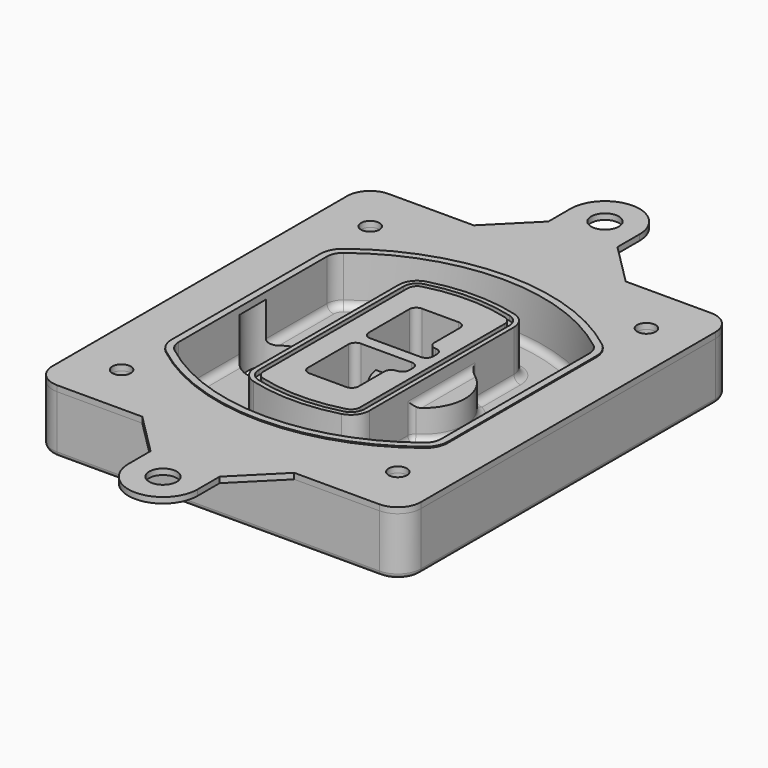
from build123d import *

# Parameters (mm, degrees)
F0_R      = 4
F1_DEPTH  = 25
F2_DEPTH  = 3
F3_DEPTH  = 18
F5_DEPTH  = 21
F6_DEPTH  = 2
F8_DEPTH  = 20
F9_DEPTH  = 16
F10_DEPTH = 25
F7_R      = 6
F7_R_2    = 4
F11_DEPTH = 6
F13_DEPTH = 9
F14_R     = 3
F15_R     = 2
F16_R     = 4
F16_R_2   = 6
F17_DEPTH = 2.5


with BuildPart() as f1:
    # F0 (on Top) → F1 (new body)
    with BuildSketch(Plane.XY):
        with BuildLine():
            ThreePointArc((-80, -80), (-77.0710678119, -87.0710678119), (-70, -90))
            Line((-70, -90), (70, -90))
            ThreePointArc((70, -90), (77.0710678119, -87.0710678119), (80, -80))
            Line((80, -80), (80, 80))
            ThreePointArc((80, 80), (77.0710678119, 87.0710678119), (70, 90))
            Line((70, 90), (-70, 90))
            ThreePointArc((-70, 90), (-77.0710678119, 87.0710678119), (-80, 80))
            Line((-80, 80), (-80, -80))
        make_face()
        with Locations((-60, -67.5)):
            Circle(F0_R, mode=Mode.SUBTRACT)
        with Locations((60, -67.5)):
            Circle(F0_R, mode=Mode.SUBTRACT)
        with Locations((-60, 67.5)):
            Circle(F0_R, mode=Mode.SUBTRACT)
        with BuildLine():
            ThreePointArc((-64, 40.2934422872), (-62.5820384798, 46.4328484224), (-58.6153846154, 51.3286200352))
            ThreePointArc((-58.6153846154, 51.3286200352), (0, 71.5), (58.6153846154, 51.3286200352))
            ThreePointArc((58.6153846154, 51.3286200352), (62.5820384798, 46.4328484224), (64, 40.2934422872))
            Line((64, 40.2934422872), (64, -40.2934422872))
            ThreePointArc((64, -40.2934422872), (62.5820384798, -46.4328484224), (58.6153846154, -51.3286200352))
            ThreePointArc((58.6153846154, -51.3286200352), (0, -71.5), (-58.6153846154, -51.3286200352))
            ThreePointArc((-58.6153846154, -51.3286200352), (-62.5820384798, -46.4328484224), (-64, -40.2934422872))
            Line((-64, -40.2934422872), (-64, 40.2934422872))
        make_face(mode=Mode.SUBTRACT)
        with Locations((60, 67.5)):
            Circle(F0_R, mode=Mode.SUBTRACT)
        with BuildLine():
            ThreePointArc((58.6153846154, 51.3286200352), (0, 71.5), (-58.6153846154, 51.3286200352))
            ThreePointArc((-58.6153846154, 51.3286200352), (-62.5820384798, 46.4328484224), (-64, 40.2934422872))
            Line((-64, 40.2934422872), (-64, -40.2934422872))
            ThreePointArc((-64, -40.2934422872), (-62.5820384798, -46.4328484224), (-58.6153846154, -51.3286200352))
            ThreePointArc((-58.6153846154, -51.3286200352), (0, -71.5), (58.6153846154, -51.3286200352))
            ThreePointArc((58.6153846154, -51.3286200352), (62.5820384798, -46.4328484224), (64, -40.2934422872))
            Line((64, -40.2934422872), (64, 40.2934422872))
            ThreePointArc((64, 40.2934422872), (62.5820384798, 46.4328484224), (58.6153846154, 51.3286200352))
        make_face()
        with BuildLine():
            Line((-60, -40.2934422872), (-60, 40.2934422872))
            ThreePointArc((-60, 40.2934422872), (-58.9871703427, 44.6787323838), (-56.1538461538, 48.1757121072))
            ThreePointArc((-56.1538461538, 48.1757121072), (0, 67.5), (56.1538461538, 48.1757121072))
            ThreePointArc((56.1538461538, 48.1757121072), (58.9871703427, 44.6787323838), (60, 40.2934422872))
            Line((60, 40.2934422872), (60, -40.2934422872))
            ThreePointArc((60, -40.2934422872), (58.9871703427, -44.6787323838), (56.1538461538, -48.1757121072))
            ThreePointArc((56.1538461538, -48.1757121072), (0, -67.5), (-56.1538461538, -48.1757121072))
            ThreePointArc((-56.1538461538, -48.1757121072), (-58.9871703427, -44.6787323838), (-60, -40.2934422872))
        make_face(mode=Mode.SUBTRACT)
        with BuildLine():
            ThreePointArc((-56.1538461538, 48.1757121072), (-58.9871703427, 44.6787323838), (-60, 40.2934422872))
            Line((-60, 40.2934422872), (-60, -40.2934422872))
            ThreePointArc((-60, -40.2934422872), (-58.9871703427, -44.6787323838), (-56.1538461538, -48.1757121072))
            ThreePointArc((-56.1538461538, -48.1757121072), (0, -67.5), (56.1538461538, -48.1757121072))
            ThreePointArc((56.1538461538, -48.1757121072), (58.9871703427, -44.6787323838), (60, -40.2934422872))
            Line((60, -40.2934422872), (60, 40.2934422872))
            ThreePointArc((60, 40.2934422872), (58.9871703427, 44.6787323838), (56.1538461538, 48.1757121072))
            ThreePointArc((56.1538461538, 48.1757121072), (0, 67.5), (-56.1538461538, 48.1757121072))
        make_face()
        with BuildLine():
            ThreePointArc((54.3076923077, 45.8110311612), (56.2910192399, 43.3631453548), (57, 40.2934422872))
            Line((57, 40.2934422872), (57, -40.2934422872))
            ThreePointArc((57, -40.2934422872), (56.2910192399, -43.3631453548), (54.3076923077, -45.8110311612))
            ThreePointArc((54.3076923077, -45.8110311612), (0, -64.5), (-54.3076923077, -45.8110311612))
            ThreePointArc((-54.3076923077, -45.8110311612), (-56.2910192399, -43.3631453548), (-57, -40.2934422872))
            Line((-57, -40.2934422872), (-57, 40.2934422872))
            ThreePointArc((-57, 40.2934422872), (-56.2910192399, 43.3631453548), (-54.3076923077, 45.8110311612))
            ThreePointArc((-54.3076923077, 45.8110311612), (0, 64.5), (54.3076923077, 45.8110311612))
        make_face(mode=Mode.SUBTRACT)
        with BuildLine():
            Line((57, -40.2934422872), (57, 40.2934422872))
            ThreePointArc((57, 40.2934422872), (56.2910192399, 43.3631453548), (54.3076923077, 45.8110311612))
            ThreePointArc((54.3076923077, 45.8110311612), (0, 64.5), (-54.3076923077, 45.8110311612))
            ThreePointArc((-54.3076923077, 45.8110311612), (-56.2910192399, 43.3631453548), (-57, 40.2934422872))
            Line((-57, 40.2934422872), (-57, -40.2934422872))
            ThreePointArc((-57, -40.2934422872), (-56.2910192399, -43.3631453548), (-54.3076923077, -45.8110311612))
            ThreePointArc((-54.3076923077, -45.8110311612), (0, -64.5), (54.3076923077, -45.8110311612))
            ThreePointArc((54.3076923077, -45.8110311612), (56.2910192399, -43.3631453548), (57, -40.2934422872))
        make_face()
    extrude(amount=-F1_DEPTH)

    # F0 (on Top) → F2 (join)
    with BuildSketch(Plane.XY):
        with BuildLine():
            ThreePointArc((-56.1538461538, 48.1757121072), (-58.9871703427, 44.6787323838), (-60, 40.2934422872))
            Line((-60, 40.2934422872), (-60, -40.2934422872))
            ThreePointArc((-60, -40.2934422872), (-58.9871703427, -44.6787323838), (-56.1538461538, -48.1757121072))
            ThreePointArc((-56.1538461538, -48.1757121072), (0, -67.5), (56.1538461538, -48.1757121072))
            ThreePointArc((56.1538461538, -48.1757121072), (58.9871703427, -44.6787323838), (60, -40.2934422872))
            Line((60, -40.2934422872), (60, 40.2934422872))
            ThreePointArc((60, 40.2934422872), (58.9871703427, 44.6787323838), (56.1538461538, 48.1757121072))
            ThreePointArc((56.1538461538, 48.1757121072), (0, 67.5), (-56.1538461538, 48.1757121072))
        make_face()
        with BuildLine():
            ThreePointArc((54.3076923077, 45.8110311612), (56.2910192399, 43.3631453548), (57, 40.2934422872))
            Line((57, 40.2934422872), (57, -40.2934422872))
            ThreePointArc((57, -40.2934422872), (56.2910192399, -43.3631453548), (54.3076923077, -45.8110311612))
            ThreePointArc((54.3076923077, -45.8110311612), (0, -64.5), (-54.3076923077, -45.8110311612))
            ThreePointArc((-54.3076923077, -45.8110311612), (-56.2910192399, -43.3631453548), (-57, -40.2934422872))
            Line((-57, -40.2934422872), (-57, 40.2934422872))
            ThreePointArc((-57, 40.2934422872), (-56.2910192399, 43.3631453548), (-54.3076923077, 45.8110311612))
            ThreePointArc((-54.3076923077, 45.8110311612), (0, 64.5), (54.3076923077, 45.8110311612))
        make_face(mode=Mode.SUBTRACT)
    extrude(amount=F2_DEPTH)

    # F0 (on Top) → F3 (cut)
    with BuildSketch(Plane.XY):
        with BuildLine():
            Line((57, -40.2934422872), (57, 40.2934422872))
            ThreePointArc((57, 40.2934422872), (56.2910192399, 43.3631453548), (54.3076923077, 45.8110311612))
            ThreePointArc((54.3076923077, 45.8110311612), (0, 64.5), (-54.3076923077, 45.8110311612))
            ThreePointArc((-54.3076923077, 45.8110311612), (-56.2910192399, 43.3631453548), (-57, 40.2934422872))
            Line((-57, 40.2934422872), (-57, -40.2934422872))
            ThreePointArc((-57, -40.2934422872), (-56.2910192399, -43.3631453548), (-54.3076923077, -45.8110311612))
            ThreePointArc((-54.3076923077, -45.8110311612), (0, -64.5), (54.3076923077, -45.8110311612))
            ThreePointArc((54.3076923077, -45.8110311612), (56.2910192399, -43.3631453548), (57, -40.2934422872))
        make_face()
    extrude(amount=-F3_DEPTH, mode=Mode.SUBTRACT)

    # F4 (on face) → F5 (join, through all)
    with BuildSketch(Plane.XY.offset(3)):
        with BuildLine():
            ThreePointArc((-25, -39.2465276821), (-23.3511545998, -44.1109737193), (-19.0842911877, -46.9702398883))
            ThreePointArc((-19.0842911877, -46.9702398883), (0, -49.5), (19.0842911877, -46.9702398883))
            ThreePointArc((19.0842911877, -46.9702398883), (23.3511545998, -44.1109737193), (25, -39.2465276821))
            Line((25, -39.2465276821), (25, 39.2465276821))
            ThreePointArc((25, 39.2465276821), (23.3511545998, 44.1109737193), (19.0842911877, 46.9702398883))
            ThreePointArc((19.0842911877, 46.9702398883), (0, 49.5), (-19.0842911877, 46.9702398883))
            ThreePointArc((-19.0842911877, 46.9702398883), (-23.3511545998, 44.1109737193), (-25, 39.2465276821))
            Line((-25, 39.2465276821), (-25, -39.2465276821))
        make_face()
        with BuildLine():
            ThreePointArc((18.5632183908, 45.0393118368), (21.7633659499, 42.89486221), (23, 39.2465276821))
            Line((23, 39.2465276821), (23, -39.2465276821))
            ThreePointArc((23, -39.2465276821), (21.7633659499, -42.89486221), (18.5632183908, -45.0393118368))
            ThreePointArc((18.5632183908, -45.0393118368), (0, -47.5), (-18.5632183908, -45.0393118368))
            ThreePointArc((-18.5632183908, -45.0393118368), (-21.7633659499, -42.89486221), (-23, -39.2465276821))
            Line((-23, -39.2465276821), (-23, 39.2465276821))
            ThreePointArc((-23, 39.2465276821), (-21.7633659499, 42.89486221), (-18.5632183908, 45.0393118368))
            ThreePointArc((-18.5632183908, 45.0393118368), (0, 47.5), (18.5632183908, 45.0393118368))
        make_face(mode=Mode.SUBTRACT)
        with BuildLine():
            Line((23, -39.2465276821), (23, 39.2465276821))
            ThreePointArc((23, 39.2465276821), (21.7633659499, 42.89486221), (18.5632183908, 45.0393118368))
            ThreePointArc((18.5632183908, 45.0393118368), (0, 47.5), (-18.5632183908, 45.0393118368))
            ThreePointArc((-18.5632183908, 45.0393118368), (-21.7633659499, 42.89486221), (-23, 39.2465276821))
            Line((-23, 39.2465276821), (-23, -39.2465276821))
            ThreePointArc((-23, -39.2465276821), (-21.7633659499, -42.89486221), (-18.5632183908, -45.0393118368))
            ThreePointArc((-18.5632183908, -45.0393118368), (0, -47.5), (18.5632183908, -45.0393118368))
            ThreePointArc((18.5632183908, -45.0393118368), (21.7633659499, -42.89486221), (23, -39.2465276821))
        make_face()
        with BuildLine():
            ThreePointArc((18.0421455939, 43.1083837852), (20.1755772999, 41.6787507007), (21, 39.2465276821))
            Line((21, 39.2465276821), (21, -39.2465276821))
            ThreePointArc((21, -39.2465276821), (20.1755772999, -41.6787507007), (18.0421455939, -43.1083837852))
            ThreePointArc((18.0421455939, -43.1083837852), (0, -45.5), (-18.0421455939, -43.1083837852))
            ThreePointArc((-18.0421455939, -43.1083837852), (-20.1755772999, -41.6787507007), (-21, -39.2465276821))
            Line((-21, -39.2465276821), (-21, 39.2465276821))
            ThreePointArc((-21, 39.2465276821), (-20.1755772999, 41.6787507007), (-18.0421455939, 43.1083837852))
            ThreePointArc((-18.0421455939, 43.1083837852), (0, 45.5), (18.0421455939, 43.1083837852))
        make_face(mode=Mode.SUBTRACT)
        with BuildLine():
            Line((21, -39.2465276821), (21, 39.2465276821))
            ThreePointArc((21, 39.2465276821), (20.1755772999, 41.6787507007), (18.0421455939, 43.1083837852))
            ThreePointArc((18.0421455939, 43.1083837852), (0, 45.5), (-18.0421455939, 43.1083837852))
            ThreePointArc((-18.0421455939, 43.1083837852), (-20.1755772999, 41.6787507007), (-21, 39.2465276821))
            Line((-21, 39.2465276821), (-21, -39.2465276821))
            ThreePointArc((-21, -39.2465276821), (-20.1755772999, -41.6787507007), (-18.0421455939, -43.1083837852))
            ThreePointArc((-18.0421455939, -43.1083837852), (0, -45.5), (18.0421455939, -43.1083837852))
            ThreePointArc((18.0421455939, -43.1083837852), (20.1755772999, -41.6787507007), (21, -39.2465276821))
        make_face()
        with BuildLine():
            Line((-8, -2.5), (14, -2.5))
            ThreePointArc((14, -2.5), (16.1213203436, -3.3786796564), (17, -5.5))
            Line((17, -5.5), (17, -7.5))
            ThreePointArc((17, -7.5), (16.1213203436, -9.6213203436), (14, -10.5))
            ThreePointArc((14, -10.5), (11.8786796564, -11.3786796564), (11, -13.5))
            Line((11, -13.5), (11, -27.5))
            ThreePointArc((11, -27.5), (10.1213203436, -29.6213203436), (8, -30.5))
            Line((8, -30.5), (-8, -30.5))
            ThreePointArc((-8, -30.5), (-10.1213203436, -29.6213203436), (-11, -27.5))
            Line((-11, -27.5), (-11, -5.5))
            ThreePointArc((-11, -5.5), (-10.1213203436, -3.3786796564), (-8, -2.5))
        make_face(mode=Mode.SUBTRACT)
        with BuildLine():
            ThreePointArc((-8, 2.5), (-10.1213203436, 3.3786796564), (-11, 5.5))
            Line((-11, 5.5), (-11, 27.5))
            ThreePointArc((-11, 27.5), (-10.1213203436, 29.6213203436), (-8, 30.5))
            Line((-8, 30.5), (8, 30.5))
            ThreePointArc((8, 30.5), (10.1213203436, 29.6213203436), (11, 27.5))
            Line((11, 27.5), (11, 13.5))
            ThreePointArc((11, 13.5), (11.8786796564, 11.3786796564), (14, 10.5))
            ThreePointArc((14, 10.5), (16.1213203436, 9.6213203436), (17, 7.5))
            Line((17, 7.5), (17, 5.5))
            ThreePointArc((17, 5.5), (16.1213203436, 3.3786796564), (14, 2.5))
            Line((14, 2.5), (-8, 2.5))
        make_face(mode=Mode.SUBTRACT)
    extrude(amount=-F5_DEPTH)

    # F4 (on face) → F6 (cut)
    with BuildSketch(Plane.XY.offset(3)):
        with BuildLine():
            Line((23, -39.2465276821), (23, 39.2465276821))
            ThreePointArc((23, 39.2465276821), (21.7633659499, 42.89486221), (18.5632183908, 45.0393118368))
            ThreePointArc((18.5632183908, 45.0393118368), (0, 47.5), (-18.5632183908, 45.0393118368))
            ThreePointArc((-18.5632183908, 45.0393118368), (-21.7633659499, 42.89486221), (-23, 39.2465276821))
            Line((-23, 39.2465276821), (-23, -39.2465276821))
            ThreePointArc((-23, -39.2465276821), (-21.7633659499, -42.89486221), (-18.5632183908, -45.0393118368))
            ThreePointArc((-18.5632183908, -45.0393118368), (0, -47.5), (18.5632183908, -45.0393118368))
            ThreePointArc((18.5632183908, -45.0393118368), (21.7633659499, -42.89486221), (23, -39.2465276821))
        make_face()
        with BuildLine():
            ThreePointArc((18.0421455939, 43.1083837852), (20.1755772999, 41.6787507007), (21, 39.2465276821))
            Line((21, 39.2465276821), (21, -39.2465276821))
            ThreePointArc((21, -39.2465276821), (20.1755772999, -41.6787507007), (18.0421455939, -43.1083837852))
            ThreePointArc((18.0421455939, -43.1083837852), (0, -45.5), (-18.0421455939, -43.1083837852))
            ThreePointArc((-18.0421455939, -43.1083837852), (-20.1755772999, -41.6787507007), (-21, -39.2465276821))
            Line((-21, -39.2465276821), (-21, 39.2465276821))
            ThreePointArc((-21, 39.2465276821), (-20.1755772999, 41.6787507007), (-18.0421455939, 43.1083837852))
            ThreePointArc((-18.0421455939, 43.1083837852), (0, 45.5), (18.0421455939, 43.1083837852))
        make_face(mode=Mode.SUBTRACT)
    extrude(amount=-F6_DEPTH, mode=Mode.SUBTRACT)

    # F7 (on face) → F8 (join)
    with BuildSketch(Plane(origin=(0, 0, -25), x_dir=(1, 0, 0), z_dir=(0, 0, -1))):
        with BuildLine():
            ThreePointArc((3.28842436, 0), (16.7567035675, 13.4682792075), (30.224982775, 0))
            Line((30.224982775, 0), (35.224982775, 0))
            ThreePointArc((35.224982775, 0), (16.7567035675, 18.4682792075), (-1.71157564, 0))
            Line((-1.71157564, 0), (3.28842436, 0))
        make_face()
        with BuildLine():
            Line((3.28842436, 0), (30.224982775, 0))
            ThreePointArc((30.224982775, 0), (16.7567035675, 13.4682792075), (3.28842436, 0))
        make_face()
        with BuildLine():
            ThreePointArc((3.28842436, 0), (16.7567035675, -13.4682792075), (30.224982775, 0))
            Line((30.224982775, 0), (3.28842436, 0))
        make_face()
        with BuildLine():
            Line((35.224982775, 0), (30.224982775, 0))
            ThreePointArc((30.224982775, 0), (16.7567035675, -13.4682792075), (3.28842436, 0))
            Line((3.28842436, 0), (-1.71157564, 0))
            ThreePointArc((-1.71157564, 0), (16.7567035675, -18.4682792075), (35.224982775, 0))
        make_face()
    extrude(amount=-F8_DEPTH)

    # F7 (on face) → F9 (cut)
    with BuildSketch(Plane(origin=(0, 0, -25), x_dir=(1, 0, 0), z_dir=(0, 0, -1))):
        with BuildLine():
            Line((3.28842436, 0), (30.224982775, 0))
            ThreePointArc((30.224982775, 0), (16.7567035675, 13.4682792075), (3.28842436, 0))
        make_face()
        with BuildLine():
            ThreePointArc((3.28842436, 0), (16.7567035675, -13.4682792075), (30.224982775, 0))
            Line((30.224982775, 0), (3.28842436, 0))
        make_face()
    extrude(amount=-F9_DEPTH, mode=Mode.SUBTRACT)

    # F7 (on face) → F10 (cut)
    with BuildSketch(Plane(origin=(0, 0, -25), x_dir=(1, 0, 0), z_dir=(0, 0, -1))):
        with BuildLine():
            Line((-59.0318229325, 0), (-32.0952645175, 0))
            ThreePointArc((-32.0952645175, 0), (-45.563543725, 13.4682792075), (-59.0318229325, 0))
        make_face()
        with BuildLine():
            ThreePointArc((-59.0318229325, 0), (-45.563543725, -13.4682792075), (-32.0952645175, 0))
            Line((-32.0952645175, 0), (-59.0318229325, 0))
        make_face()
    extrude(amount=-F10_DEPTH, mode=Mode.SUBTRACT)

    # F7 (on face) → F11 (cut)
    with BuildSketch(Plane(origin=(0, 0, -25), x_dir=(1, 0, 0), z_dir=(0, 0, -1))):
        with Locations((60, -67.5)):
            Circle(F7_R)
        with Locations((60, -67.5)):
            Circle(F7_R_2, mode=Mode.SUBTRACT)
        with Locations((60, -67.5)):
            Circle(F7_R)
        with Locations((60, -67.5)):
            Circle(F7_R_2, mode=Mode.SUBTRACT)
        with Locations((-60, -67.5)):
            Circle(F7_R)
        with Locations((-60, -67.5)):
            Circle(F7_R_2, mode=Mode.SUBTRACT)
        with Locations((-60, -67.5)):
            Circle(F7_R)
        with Locations((-60, -67.5)):
            Circle(F7_R_2, mode=Mode.SUBTRACT)
        with Locations((-60, 67.5)):
            Circle(F7_R)
        with Locations((-60, 67.5)):
            Circle(F7_R_2, mode=Mode.SUBTRACT)
        with Locations((-60, 67.5)):
            Circle(F7_R)
        with Locations((-60, 67.5)):
            Circle(F7_R_2, mode=Mode.SUBTRACT)
        with Locations((60, 67.5)):
            Circle(F7_R)
        with Locations((60, 67.5)):
            Circle(F7_R_2, mode=Mode.SUBTRACT)
        with Locations((60, 67.5)):
            Circle(F7_R)
        with Locations((60, 67.5)):
            Circle(F7_R_2, mode=Mode.SUBTRACT)
    extrude(amount=-F11_DEPTH, mode=Mode.SUBTRACT)

    # F12 (on face) → F13 (cut, through all)
    with BuildSketch(Plane(origin=(0, 0, -9), x_dir=(1, 0, 0), z_dir=(0, 0, -1))):
        with BuildLine():
            Line((11, 13.5), (11, 17.5481537753))
            ThreePointArc((11, 17.5481537753), (2.5696536419, 11.8239143813), (-1.5415842455, 2.5))
            Line((-1.5415842455, 2.5), (3.5224848595, 2.5))
            ThreePointArc((3.5224848595, 2.5), (6.1857188154, 8.3455872281), (11.2536447004, 12.2927168648))
            ThreePointArc((11.2536447004, 12.2927168648), (11.0640958889, 12.8831798879), (11, 13.5))
        make_face()
        with BuildLine():
            ThreePointArc((11.2536447004, -12.2927168648), (6.1857188154, -8.3455872281), (3.5224848595, -2.5))
            Line((3.5224848595, -2.5), (-1.5415842455, -2.5))
            ThreePointArc((-1.5415842455, -2.5), (2.5696536419, -11.8239143813), (11, -17.5481537753))
            Line((11, -17.5481537753), (11, -13.5))
            ThreePointArc((11, -13.5), (11.0640958889, -12.8831798879), (11.2536447004, -12.2927168648))
        make_face()
        with BuildLine():
            ThreePointArc((11.2536447004, 12.2927168648), (6.1857188154, 8.3455872281), (3.5224848595, 2.5))
            Line((3.5224848595, 2.5), (14, 2.5))
            ThreePointArc((14, 2.5), (16.1213203436, 3.3786796564), (17, 5.5))
            Line((17, 5.5), (17, 7.5))
            ThreePointArc((17, 7.5), (16.1213203436, 9.6213203436), (14, 10.5))
            ThreePointArc((14, 10.5), (12.3601599782, 10.9878446101), (11.2536447004, 12.2927168648))
        make_face()
        with BuildLine():
            Line((14, -2.5), (3.5224848595, -2.5))
            ThreePointArc((3.5224848595, -2.5), (6.1857188154, -8.3455872281), (11.2536447004, -12.2927168648))
            ThreePointArc((11.2536447004, -12.2927168648), (12.3601599782, -10.9878446101), (14, -10.5))
            ThreePointArc((14, -10.5), (16.1213203436, -9.6213203436), (17, -7.5))
            Line((17, -7.5), (17, -5.5))
            ThreePointArc((17, -5.5), (16.1213203436, -3.3786796564), (14, -2.5))
        make_face()
    extrude(amount=F13_DEPTH, mode=Mode.SUBTRACT)

    # F14
    f14_edges = [f1.edges().sort_by_distance(p)[0] for p in [
        (-57, -23.703476, -18),
        (-57, 23.703476, -18),
        (25, 0, -5),
        (25, 16.526506, -11.5),
        (25, -16.526506, -11.5),
        (25, -27.886517, -18),
        (35.224983, 0, -18),
    ]]
    fillet(f14_edges, radius=F14_R)

    # F15
    f15_edges = [f1.edges().sort_by_distance(p)[0] for p in [
        (0, -90, -25),
    ]]
    fillet(f15_edges, radius=F15_R)


with BuildPart() as f17:
    # F16 (on face) → F17 (new body)
    with BuildSketch(Plane.XY):
        with BuildLine():
            Line((-33, 90), (-70, 90))
            ThreePointArc((-70, 90), (-77.0710678119, 87.0710678119), (-80, 80))
            Line((-80, 80), (-80, -80))
            ThreePointArc((-80, -80), (-77.0710678119, -87.0710678119), (-70, -90))
            Line((-70, -90), (-33, -90))
            Line((-33, -90), (33, -90))
            Line((33, -90), (70, -90))
            ThreePointArc((70, -90), (77.0710678119, -87.0710678119), (80, -80))
            Line((80, -80), (80, 80))
            ThreePointArc((80, 80), (77.0710678119, 87.0710678119), (70, 90))
            Line((70, 90), (33, 90))
            Line((33, 90), (-33, 90))
        make_face()
        with Locations((-60, -67.5)):
            Circle(F16_R, mode=Mode.SUBTRACT)
        with Locations((60, -67.5)):
            Circle(F16_R, mode=Mode.SUBTRACT)
        with Locations((-60, 67.5)):
            Circle(F16_R, mode=Mode.SUBTRACT)
        with BuildLine():
            Line((-60, -40.2934422872), (-60, 40.2934422872))
            ThreePointArc((-60, 40.2934422872), (-58.9871703427, 44.6787323838), (-56.1538461538, 48.1757121072))
            ThreePointArc((-56.1538461538, 48.1757121072), (0, 67.5), (56.1538461538, 48.1757121072))
            ThreePointArc((56.1538461538, 48.1757121072), (58.9871703427, 44.6787323838), (60, 40.2934422872))
            Line((60, 40.2934422872), (60, -40.2934422872))
            ThreePointArc((60, -40.2934422872), (58.9871703427, -44.6787323838), (56.1538461538, -48.1757121072))
            ThreePointArc((56.1538461538, -48.1757121072), (0, -67.5), (-56.1538461538, -48.1757121072))
            ThreePointArc((-56.1538461538, -48.1757121072), (-58.9871703427, -44.6787323838), (-60, -40.2934422872))
        make_face(mode=Mode.SUBTRACT)
        with Locations((60, 67.5)):
            Circle(F16_R, mode=Mode.SUBTRACT)
        with BuildLine():
            Line((-15, 108), (-33, 90))
            Line((-33, 90), (33, 90))
            Line((33, 90), (15, 108))
            Line((15, 108), (15, 120))
            ThreePointArc((15, 120), (0, 135), (-15, 120))
            Line((-15, 120), (-15, 108))
        make_face()
        with Locations((0, 120)):
            Circle(F16_R_2, mode=Mode.SUBTRACT)
        with BuildLine():
            Line((33, -90), (-33, -90))
            Line((-33, -90), (-15, -108))
            Line((-15, -108), (-15, -120))
            ThreePointArc((-15, -120), (0, -135), (15, -120))
            Line((15, -120), (15, -108))
            Line((15, -108), (33, -90))
        make_face()
        with Locations((0, -120)):
            Circle(F16_R_2, mode=Mode.SUBTRACT)
    extrude(amount=F17_DEPTH)


solid = Compound([f1.part, f17.part])
